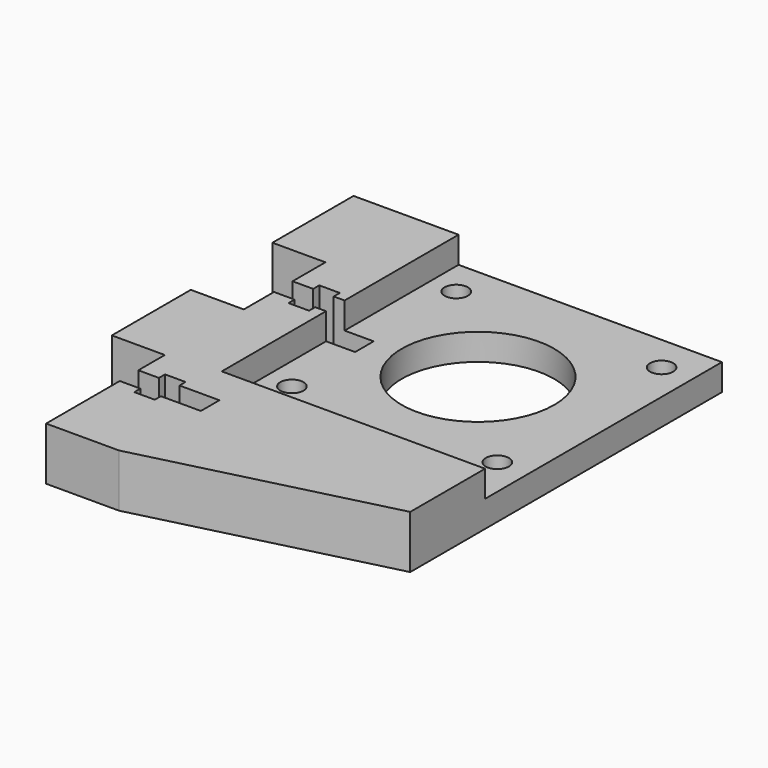
from build123d import *

# Parameters (mm, degrees)
F0_R     = 1.75
F0_R_2   = 11.5
F1_DEPTH = 4
F3_DEPTH = 4


with BuildPart() as f1:
    # F0 (on Top) → F1 (new body)
    with BuildSketch(Plane.XY):
        Polygon((20.1, -37.9), (20.1, 0), (20.1, 20.9), (-35.5, 20.9), (-35.5, 5.6), (-32.154713, 5.6), (-27.5, 5.6), (-27.5, -0.6), (-24.389403, -0.6), (-24.389403, 0.55), (-21.289403, 0.55), (-21.289403, -0.6), (-15.26, -0.6), (-15.26, -4.1), (-21.289403, -4.1), (-21.289403, -5.25), (-24.389403, -5.25), (-24.389403, -4.1), (-27.5, -4.1), (-27.5, -9.8), (-35.5, -9.8), (-35.5, -24.7), (-32.154713, -24.7), (-27.5, -24.7), (-27.5, -29.7), (-24.389403, -29.7), (-24.389403, -28.55), (-21.289403, -28.55), (-21.289403, -29.7), (-15.26, -29.7), (-15.26, -33.2), (-21.289403, -33.2), (-21.289403, -34.35), (-24.389403, -34.35), (-24.389403, -33.2), (-27.5, -33.2), (-27.5, -47.1), (-16.5, -47.1), align=None)
        with Locations((-15.6, -15.6)):
            Circle(F0_R, mode=Mode.SUBTRACT)
        with Locations((15.4, -15.6)):
            Circle(F0_R, mode=Mode.SUBTRACT)
        with Locations((-15.6, 15.4)):
            Circle(F0_R, mode=Mode.SUBTRACT)
        Circle(F0_R_2, mode=Mode.SUBTRACT)
        with Locations((15.4, 15.4)):
            Circle(F0_R, mode=Mode.SUBTRACT)
    extrude(amount=F1_DEPTH)

    # F2 (on face) → F3 (join)
    with BuildSketch(Plane.XY.offset(4)):
        Polygon((-19.648715, 15.332938), (-19.648715, 20.9), (-35.5, 20.9), (-35.5, 5.6), (-27.5, 5.6), (-27.5, -0.6), (-24.389403, -0.6), (-24.389403, 0.55), (-21.289403, 0.55), (-21.289403, -0.6), (-19.648715, -0.6), align=None)
        Polygon((-19.648715, -23.77837), (-19.648715, -4.1), (-21.289403, -4.1), (-21.289403, -5.25), (-24.389403, -5.25), (-24.389403, -4.1), (-27.5, -4.1), (-27.5, -9.8), (-35.5, -9.8), (-35.5, -24.7), (-27.5, -24.7), (-27.5, -29.7), (-24.389403, -29.7), (-24.389403, -28.55), (-21.289403, -28.55), (-21.289403, -29.7), (-19.648715, -29.7), align=None)
        Polygon((-19.648715, -47.1), (-19.648715, -33.2), (-21.289403, -33.2), (-21.289403, -34.35), (-24.389403, -34.35), (-24.389403, -33.2), (-27.5, -33.2), (-27.5, -47.1), align=None)
        Polygon((20.1, -37.9), (20.1, -23.77837), (-19.648715, -23.77837), (-19.648715, -29.7), (-15.26, -29.7), (-15.26, -33.2), (-19.648715, -33.2), (-19.648715, -47.1), (-16.5, -47.1), align=None)
    extrude(amount=F3_DEPTH)


solid = f1.part
